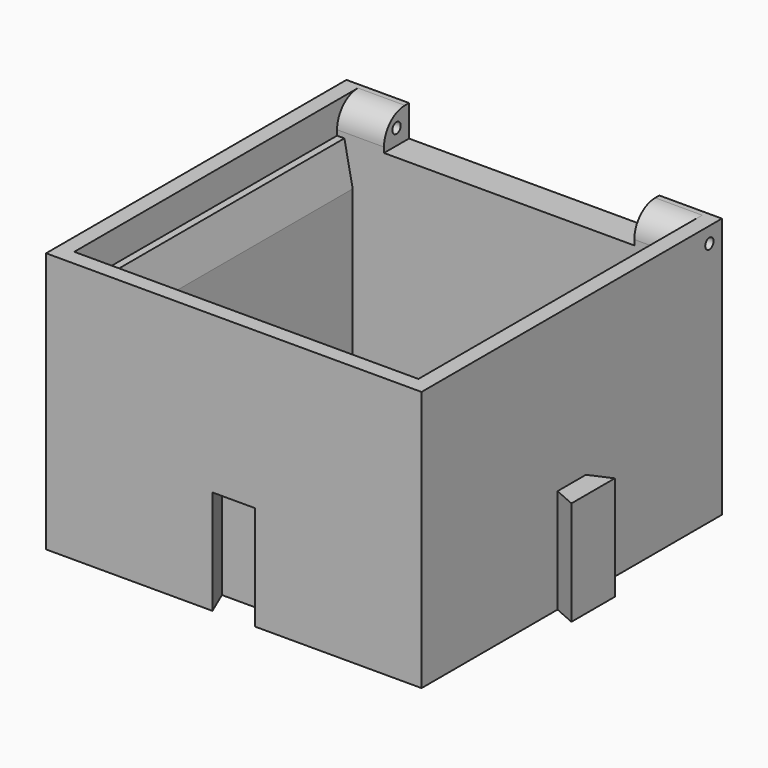
from build123d import *

# Parameters (mm, degrees)
SKETCH_W             = 36
SKETCH_H             = 36
PAD_DEPTH            = 22
PAD001_DEPTH         = 10
POCKET_DEPTH         = 10
SKETCH004_W          = 30
SKETCH004_H          = 30
POCKET001_DEPTH      = 20
PAD002_DEPTH         = 3
SKETCH006_R          = 0.5
POCKET002_DEPTH      = 18.001
POCKET002_DEPTH_BACK = 20.051
FILLET001_R          = 2.5
CHAMFER_SIZE2        = 4
CHAMFER_SIZE         = 0.8


with BuildPart() as part:
    # Sketch (on DatumPlane) → Pad (new body)
    with BuildSketch(Plane.XY):
        Rectangle(SKETCH_W, SKETCH_H)
    extrude(amount=PAD_DEPTH)

    # Sketch001 (on DatumPlane) → Pad001 (join)
    with BuildSketch(Plane.XY):
        Polygon((-1.7, 18), (1.7, 18), (2.6, 20.05), (-2.6, 20.05), align=None)
        Polygon((18, 1.7), (18, -1.7), (20.05, -2.6), (20.05, 2.6), align=None)
    extrude(amount=PAD001_DEPTH)

    # Sketch003 (on DatumPlane) → Pocket (cut)
    with BuildSketch(Plane.XY):
        Polygon((-2.05, -18), (2.05, -18), (3.1, -15.55), (-3.1, -15.55), align=None)
        Polygon((-18, 2.05), (-18, -2.05), (-15.55, -3.1), (-15.55, 3.1), align=None)
    extrude(amount=POCKET_DEPTH, mode=Mode.SUBTRACT)

    # Sketch004 (on DatumPlane) → Pocket001 (cut)
    with BuildSketch(Plane.XY.offset(22)):
        Rectangle(SKETCH004_W, SKETCH004_H)
    extrude(amount=-POCKET001_DEPTH, mode=Mode.SUBTRACT)

    # Sketch005 (on DatumPlane) → Pad002 (join)
    with BuildSketch(Plane.XY.offset(22)):
        Polygon((-18, 18), (-12, 18), (-12, 15), (-16.5, 15), (-16.5, -16.5), (16.5, -16.5), (16.5, 15), (12, 15), (12, 18), (18, 18), (18, -18), (-18, -18), align=None)
    extrude(amount=PAD002_DEPTH)

    # Sketch006 (on DatumPlane) → Pocket002 (cut, two sides)
    with BuildSketch(Plane.YZ) as pocket002_sk:
        with Locations((16.5, 23.5)):
            Circle(SKETCH006_R)
    extrude(amount=-POCKET002_DEPTH, mode=Mode.SUBTRACT)
    extrude(pocket002_sk.sketch, amount=POCKET002_DEPTH_BACK, mode=Mode.SUBTRACT)

    # Sketch007 (on DatumPlane) → AdditiveLoft section 0
    with BuildSketch(Plane(origin=(0, -16.5, 0), x_dir=(-1, 0, 0), z_dir=(0, -1, 0))):
        with BuildLine():
            ThreePointArc((-6, -22.75), (-6.75, -23.5), (-6, -24.25))
            Line((-6, -24.25), (6, -24.25))
            ThreePointArc((6, -24.25), (6.75, -23.5), (6, -22.75))
            Line((-6, -22.75), (6, -22.75))
        make_face()
    # Sketch008 (on DatumPlane) → AdditiveLoft section 1
    with BuildSketch(Plane.XZ.offset(15.7)):
        with BuildLine():
            ThreePointArc((-3.75, 24), (-4.25, 23.5), (-3.75, 23))
            Line((-3.75, 23), (3.75, 23))
            ThreePointArc((3.75, 23), (4.25, 23.5), (3.75, 24))
            Line((-3.75, 24), (3.75, 24))
        make_face()
    loft()

    # Fillet001
    fillet001_edges = [part.edges().sort_by_distance(p)[0] for p in [
        (-14.25, 15, 25),
        (14.25, 15, 25),
    ]]
    fillet(fillet001_edges, radius=FILLET001_R)

    # Chamfer
    chamfer_edges = [part.edges().sort_by_distance(p)[0] for p in [
        (15, 0, 22),
        (0, -15, 22),
        (-15, 0, 22),
    ]]
    chamfer_side = part.faces().sort_by_distance((-15.75, 14.543793, 22))[0]
    chamfer(chamfer_edges, length=CHAMFER_SIZE, length2=CHAMFER_SIZE2, reference=chamfer_side)


solid = part.part
